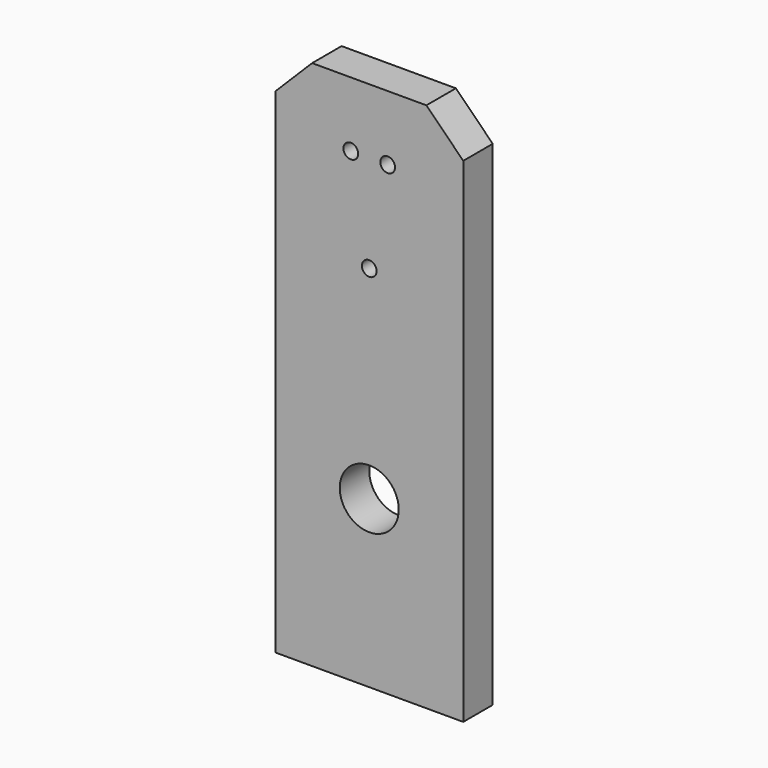
from build123d import *

# Parameters (mm, degrees)
F0_R     = 4
F0_R_2   = 1
F1_DEPTH = 5


with BuildPart() as f1:
    # F0 (on Front) → F1 (new body)
    with BuildSketch(Plane.XZ):
        Polygon((0, 67), (0, 0), (25.5, 0), (25.5, 67), (20.5, 72), (5, 72), align=None)
        with Locations((12.75, 22.5)):
            Circle(F0_R, mode=Mode.SUBTRACT)
        with Locations((10.25, 63.2)):
            Circle(F0_R_2, mode=Mode.SUBTRACT)
        with Locations((12.75, 50)):
            Circle(F0_R_2, mode=Mode.SUBTRACT)
        with Locations((15.25, 63.2)):
            Circle(F0_R_2, mode=Mode.SUBTRACT)
    extrude(amount=F1_DEPTH)


solid = f1.part
